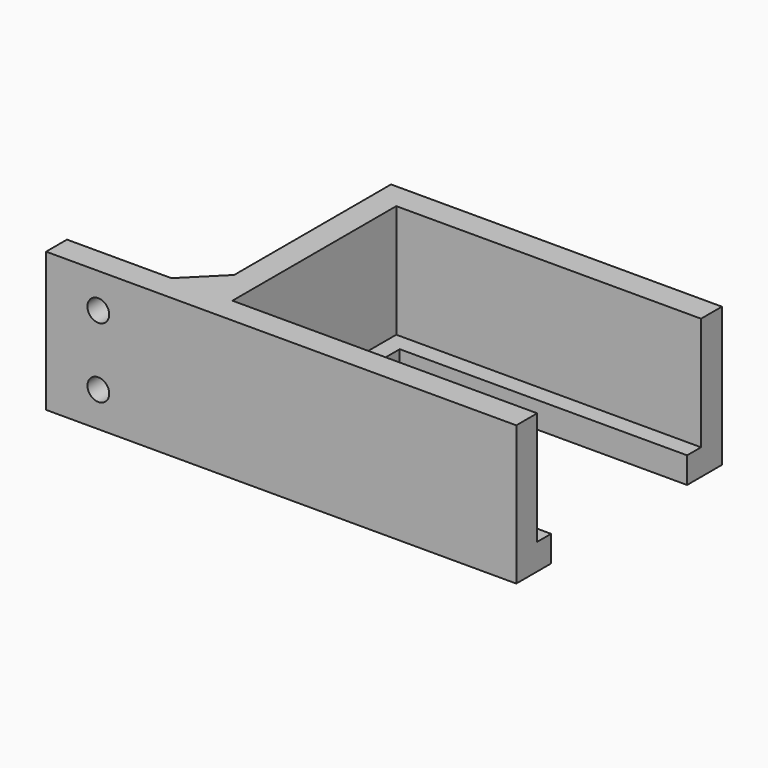
from build123d import *

# Parameters (mm, degrees)
F0_W     = 4.7625
F0_H     = 3.175
F0_W_2   = 25.4
F0_H_2   = 4.7625
F1_DEPTH = 4.7625
F2_DEPTH = 25.4
F3_SIZE  = 6.35
F4_R     = 3.96875
F4_R_2   = 1.984375
F5_DEPTH = 0.79375
F6_DEPTH = 4.7625


with BuildPart() as f1:
    # F0 (on Top) → F1 (new body)
    with BuildSketch(Plane.XY):
        with Locations((27.78125, 17.0815)):
            Rectangle(F0_W, F0_H)
        with Locations((27.78125, -17.0815)):
            Rectangle(F0_W, F0_H)
        with Locations((-42.8625, -21.05025)):
            Rectangle(F0_W_2, F0_H_2)
        Polygon((25.4, -18.669), (-25.4, -18.669), (-30.1625, -18.669), (-30.1625, -23.4315), (30.1625, -23.4315), (30.1625, -18.669), align=None)
        Polygon((-25.4, 18.669), (25.4, 18.669), (30.1625, 18.669), (30.1625, 23.4315), (-30.1625, 23.4315), (-30.1625, -18.669), (-25.4, -18.669), align=None)
        Polygon((25.4, 15.494), (25.4, 18.669), (-25.4, 18.669), (-25.4, -18.669), (25.4, -18.669), (25.4, -15.494), (-22.225, -15.494), (-22.225, 15.494), align=None)
    extrude(amount=F1_DEPTH)

    # F0 (on Top) → F2 (join)
    with BuildSketch(Plane.XY):
        with Locations((-42.8625, -21.05025)):
            Rectangle(F0_W_2, F0_H_2)
        Polygon((25.4, -18.669), (-25.4, -18.669), (-30.1625, -18.669), (-30.1625, -23.4315), (30.1625, -23.4315), (30.1625, -18.669), align=None)
        Polygon((-25.4, 18.669), (25.4, 18.669), (30.1625, 18.669), (30.1625, 23.4315), (-30.1625, 23.4315), (-30.1625, -18.669), (-25.4, -18.669), align=None)
    extrude(amount=F2_DEPTH)

    # F3
    f3_edges = [f1.edges().sort_by_distance(p)[0] for p in [
        (-30.1625, -18.669, 12.7),
    ]]
    chamfer(f3_edges, length=F3_SIZE)

    # F4 (on face) → F5 (cut)
    with BuildSketch(Plane(origin=(0, -18.669, 0), x_dir=(-1, 0, 0), z_dir=(0, 1, 0))):
        with Locations((46.0375, 6.35)):
            Circle(F4_R)
        with Locations((46.0375, 6.35)):
            Circle(F4_R_2, mode=Mode.SUBTRACT)
        with Locations((46.0375, 19.05)):
            Circle(F4_R)
        with Locations((46.0375, 19.05)):
            Circle(F4_R_2, mode=Mode.SUBTRACT)
    extrude(amount=-F5_DEPTH, mode=Mode.SUBTRACT)

    # F6 (cut, through all): faces of the model
    f6_faces = [f1.faces().sort_by_distance(p)[0] for p in [
        (-46.0375, -18.669, 6.35),
        (-46.0375, -18.669, 19.05),
    ]]
    extrude(f6_faces, amount=-F6_DEPTH, mode=Mode.SUBTRACT)


solid = f1.part
